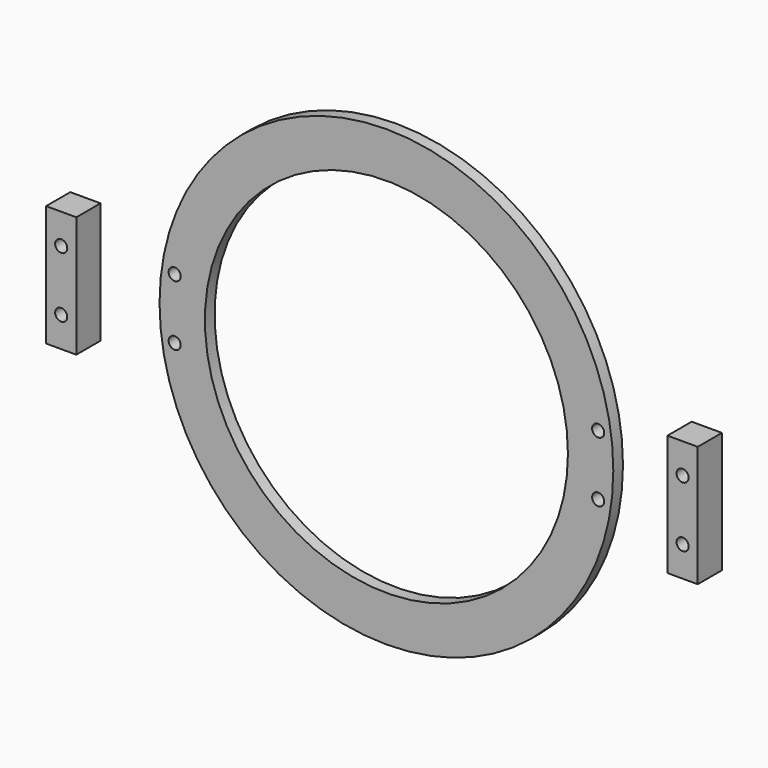
from build123d import *

# Parameters (mm, degrees)
F0_R     = 75
F0_R_2   = 2
F0_R_3   = 60
F1_DEPTH = 4
F2_W     = 10
F2_H     = 40
F2_R     = 2
F3_DEPTH = 10


with BuildPart() as f1:
    # F0 (on Front) → F1 (new body)
    with BuildSketch(Plane.XZ):
        Circle(F0_R)
        with Locations((-70, -10)):
            Circle(F0_R_2, mode=Mode.SUBTRACT)
        with Locations((70, -10)):
            Circle(F0_R_2, mode=Mode.SUBTRACT)
        with Locations((-70, 10)):
            Circle(F0_R_2, mode=Mode.SUBTRACT)
        Circle(F0_R_3, mode=Mode.SUBTRACT)
        with Locations((70, 10)):
            Circle(F0_R_2, mode=Mode.SUBTRACT)
    extrude(amount=F1_DEPTH)


with BuildPart() as f3:
    # F2 (on Front) → F3 (new body)
    with BuildSketch(Plane.XZ):
        with Locations((-102.704708, 0)):
            Rectangle(F2_W, F2_H)
        with Locations((-102.704708, -10)):
            Circle(F2_R, mode=Mode.SUBTRACT)
        with Locations((-102.704708, 10)):
            Circle(F2_R, mode=Mode.SUBTRACT)
        with Locations((102.704708, 0)):
            Rectangle(F2_W, F2_H)
        with Locations((102.704708, -10)):
            Circle(F2_R, mode=Mode.SUBTRACT)
        with Locations((102.704708, 10)):
            Circle(F2_R, mode=Mode.SUBTRACT)
    extrude(amount=F3_DEPTH)


solid = Compound([f1.part, f3.part])
